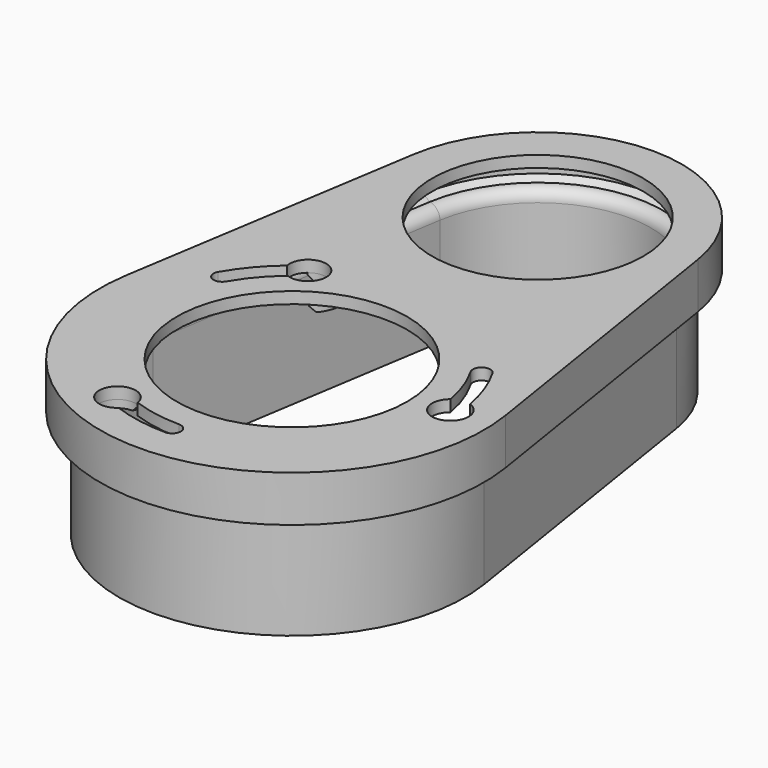
from build123d import *

# Parameters (mm, degrees)
PAD_DEPTH             = 40
SKETCH004_R           = 150
POCKET001_DEPTH       = 28
THICKNESS_T           = -3
SKETCH003_R           = 27.5
SKETCH003_R_2         = 30
POCKET002_DEPTH       = 40.001
POCKET003_DEPTH       = 5
POLARPATTERN_COUNT    = 3
CHAMFER_ANGLE         = 60
CHAMFER_SIZE          = 1.1
CHAMFER003_SIZE       = 2
PAD004_DEPTH          = 2
POLARPATTERN002_COUNT = 3
CHAMFER004_SIZE       = 1.5


with BuildPart() as part:
    # Sketch002 → Pad (new body)
    with BuildSketch(Plane.XY.offset(22)):
        with BuildLine():
            ThreePointArc((-49.385877, 7.8125), (0, -50), (49.385877, 7.8125))
            Line((49.385877, 7.8125), (37.039408, 85.859375))
            ThreePointArc((37.039408, 85.859375), (0, 117.5), (-37.039408, 85.859375))
            Line((-49.385877, 7.8125), (-37.039408, 85.859375))
        make_face()
    extrude(amount=PAD_DEPTH)

    # Sketch004 (on Face5 of Pad) → Pocket001 (cut)
    with BuildSketch(Plane(origin=(0, 0, 22), x_dir=(1, 0, 0), z_dir=(0, 0, -1))):
        Circle(SKETCH004_R)
        with BuildLine():
            ThreePointArc((-32.10082, -85.078125), (0, -112.5), (32.10082, -85.078125))
            Line((32.10082, -85.078125), (44.447289, -7.03125))
            ThreePointArc((44.447289, -7.03125), (0, 45), (-44.447289, -7.03125))
            Line((-44.447289, -7.03125), (-32.10082, -85.078125))
        make_face(mode=Mode.SUBTRACT)
    extrude(amount=-POCKET001_DEPTH, mode=Mode.SUBTRACT)

    # Thickness
    thickness_openings = [part.faces().sort_by_distance(p)[0] for p in [
        (0, 29.917579, 22),
    ]]
    offset(amount=THICKNESS_T, openings=thickness_openings)

    # Sketch003 (on Face6 of Pad) → Pocket002 (cut, through all)
    with BuildSketch(Plane.XY.offset(62)):
        with Locations((0, 80)):
            Circle(SKETCH003_R)
        Circle(SKETCH003_R_2)
    extrude(amount=-POCKET002_DEPTH, mode=Mode.SUBTRACT)

    # Sketch005 (on Face4 of Pocket002) → Pocket003 (cut)
    with BuildSketch(Plane.XY.offset(62)):
        with BuildLine():
            ThreePointArc((0, -41.25), (2.25, -39), (0, -36.75))
            ThreePointArc((-12.56924, -34.533704), (-6.381571, -36.191685), (0, -36.75))
            ThreePointArc((-12.56924, -34.533704), (-21.733342, -33.592644), (-14.108331, -38.762321))
            ThreePointArc((-14.108331, -38.762321), (-7.162987, -40.62332), (0, -41.25))
        make_face()
    pocket003 = extrude(amount=-POCKET003_DEPTH, mode=Mode.SUBTRACT)

    # PolarPattern: Pocket003 ×3 about axis
    polarpattern_axis = Axis((0, 0, 62), (0, 0, 1))
    for i in range(1, POLARPATTERN_COUNT):
        add(pocket003.rotate(polarpattern_axis, i * 360 / POLARPATTERN_COUNT), mode=Mode.SUBTRACT)

    # Chamfer
    chamfer_edges = [part.edges().sort_by_distance(p)[0] for p in [
        (0, 114.5, 53),
    ]]
    chamfer_side = part.faces().sort_by_distance((0, 114.5, 56))[0]
    chamfer(chamfer_edges, length=CHAMFER_SIZE, angle=CHAMFER_ANGLE, reference=chamfer_side)

    # Chamfer003
    chamfer003_edges = [part.edges().sort_by_distance(p)[0] for p in [
        (0, -47, 59),
    ]]
    chamfer(chamfer003_edges, length=CHAMFER003_SIZE)

    # Sketch013 (on Face9 of Chamfer003) → Pad004 (join)
    with BuildSketch(Plane(origin=(0, 0, 59), x_dir=(1, 0, 0), z_dir=(0, 0, -1))):
        with BuildLine():
            ThreePointArc((-20.347983, 43.674473), (-25.727035, 32.139058), (-14.191621, 26.760006))
            Line((-15.645206, 30.753699), (-14.191621, 26.760006))
            ThreePointArc((-18.894398, 39.680779), (-21.733342, 33.592644), (-15.645206, 30.753699))
            Line((-20.347983, 43.674473), (-18.894398, 39.680779))
        make_face()
    pad004 = extrude(amount=PAD004_DEPTH)

    # PolarPattern002: Pad004 ×3 about axis
    polarpattern002_axis = Axis((0, 0, 59), (0, 0, -1))
    for i in range(1, POLARPATTERN002_COUNT):
        add(pad004.rotate(polarpattern002_axis, i * 360 / POLARPATTERN002_COUNT))

    # Chamfer004
    chamfer004_edges = [part.edges().sort_by_distance(p)[0] for p in [
        (-17.444958, 27.298151, 57),
        (-26.283288, 37.831262, 57),
        (-19.41828, -41.120134, 57),
        (-14.918413, -28.756853, 57),
        (45.320221, 3.743343, 57),
        (32.363372, 1.458701, 57),
    ]]
    chamfer(chamfer004_edges, length=CHAMFER004_SIZE)


solid = part.part
